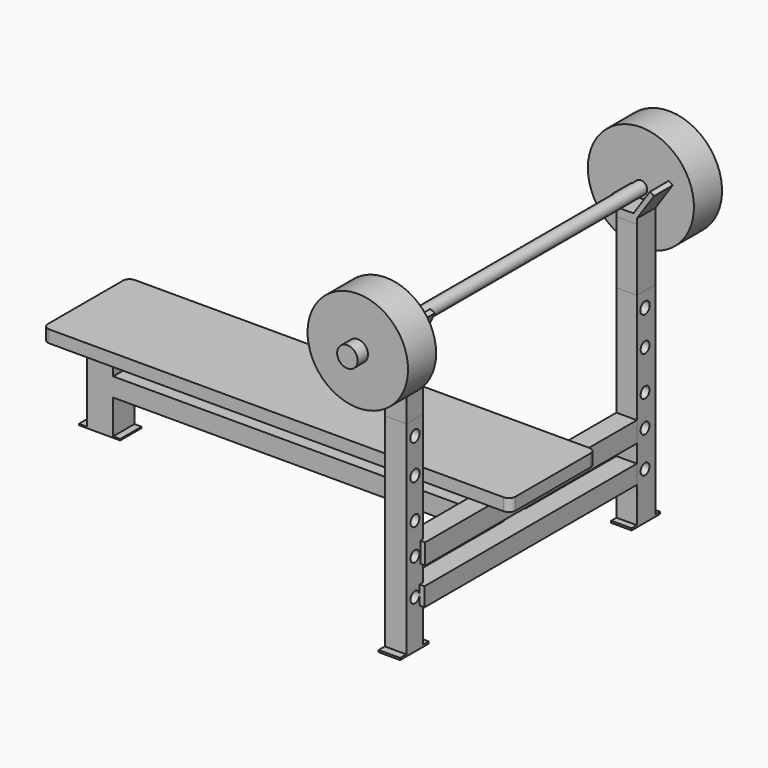
from build123d import *

# Parameters (mm, degrees)
F0_W           = 182.5544759631
F0_H           = 41.7688651942
F1_DEPTH       = 4.826
F2_W           = 10.2060101926
F2_H           = 10.4048848152
F3_DEPTH       = 35.56
F4_W           = 16.1235965788
F4_H           = 10.4048848152
F5_DEPTH       = 0.508
F6_W           = 10.4048848152
F6_H           = 7.266888395
F7_DEPTH       = 153.924
F8_W           = 8.3915367723
F8_H           = 8.1624239683
F9_DEPTH       = 42.926
F9_DEPTH_BACK  = 36.322
F10_W          = 7.9777687788
F10_H          = 9.0949684381
F11_DEPTH      = 42.926
F11_DEPTH_BACK = 36.068
F12_W          = 7.9777687788
F12_H          = 7.266888395
F13_DEPTH      = 103.632
F14_W          = 8.3915367723
F14_H          = 8.1624239683
F15_DEPTH      = 26.416
F16_W          = 7.9777687788
F16_H          = 9.0949684381
F17_DEPTH      = 26.416
F18_W          = 7.9777687788
F18_H          = 7.9777687788
F19_DEPTH      = 103.3018
F21_DEPTH      = 8.0772
F23_DEPTH      = 9.144
F24_R          = 2.54
F25_R          = 2.4691637826
F26_DEPTH      = 103.378
F26_DEPTH_BACK = 48.514
F27_R          = 19.6164042051
F28_DEPTH      = 13.716
F29_R          = 20.7006908264
F30_DEPTH      = 13.716
F31_R          = 3.5815774467
F32_DEPTH      = 5.08
F33_R          = 3.9997666951
F34_DEPTH      = 5.08
F35_R          = 2.286
F36_DEPTH      = 25.4
F37_R          = 2.286
F38_DEPTH      = 25.4
F39_R          = 2.159
F40_DEPTH      = 25.4
F41_R          = 2.159
F42_DEPTH      = 25.4
F43_R          = 2.159
F44_DEPTH      = 25.4
F45_R          = 2.286
F46_DEPTH      = 25.4
F47_R          = 2.159
F48_DEPTH      = 25.4
F49_R          = 2.159
F50_DEPTH      = 25.4
F51_R          = 2.159
F52_DEPTH      = 25.4
F53_R          = 2.159
F54_DEPTH      = 25.4
F55_W          = 8.3915367723
F55_H          = 13.9687731862
F56_DEPTH      = 0.762
F57_W          = 7.9777687788
F57_H          = 13.97
F58_DEPTH      = 0.762


with BuildPart() as f1:
    # F0 (on Top) → F1 (new body)
    with BuildSketch(Plane.XY):
        with Locations((31.3345678151, -28.3059768844)):
            Rectangle(F0_W, F0_H)
    extrude(amount=F1_DEPTH)

    # F2 (on face) → F3 (join)
    with BuildSketch(Plane(origin=(0, 0, 0), x_dir=(1, 0, 0), z_dir=(0, 0, -1))):
        with Locations((-51.5984315425, 26.4149345458)):
            Rectangle(F2_W, F2_H)
    extrude(amount=F3_DEPTH)

    # F4 (on face) → F5 (join)
    with BuildSketch(Plane(origin=(0, 0, -35.56), x_dir=(1, 0, 0), z_dir=(0, 0, -1))):
        with Locations((-51.7963599414, 26.4149345458)):
            Rectangle(F4_W, F4_H)
    extrude(amount=F5_DEPTH)

    # F6 (on face) → F7 (join)
    with BuildSketch(Plane.YZ.offset(-46.4954264462)):
        with Locations((-26.4149345458, -18.561120145)):
            Rectangle(F6_W, F6_H)
    extrude(amount=F7_DEPTH)

    # F24
    f24_edges = [f1.edges().sort_by_distance(p)[0] for p in [
        (-59.94267, -49.190409, 2.413),
        (-59.94267, -7.421544, 2.413),
        (122.611806, -7.421544, 2.413),
        (122.611806, -49.190409, 2.413),
    ]]
    fillet(f24_edges, radius=F24_R)


with BuildPart() as f9:
    # F8 (on Top) → F9 (new body, two sides)
    with BuildSketch(Plane.XY) as f9_sk:
        with Locations((108.089659363, -82.9381048679)):
            Rectangle(F8_W, F8_H)
    extrude(amount=F9_DEPTH)
    extrude(f9_sk.sketch, amount=-F9_DEPTH_BACK)

    # F35 (on face) → F36 (cut)
    with BuildSketch(Plane(origin=(103.8938909769, 0, 0), x_dir=(0, -1, 0), z_dir=(-1, 0, 0))):
        with Locations((82.7748328447, 37.0264612138)):
            Circle(F35_R)
    extrude(amount=-F36_DEPTH, mode=Mode.SUBTRACT)

    # F37 (on face) → F38 (cut)
    with BuildSketch(Plane(origin=(103.8938909769, 0, 0), x_dir=(0, -1, 0), z_dir=(-1, 0, 0))):
        with Locations((82.7748328447, 23.4361514449)):
            Circle(F37_R)
    extrude(amount=-F38_DEPTH, mode=Mode.SUBTRACT)

    # F39 (on face) → F40 (cut)
    with BuildSketch(Plane(origin=(103.8938909769, 0, 0), x_dir=(0, -1, 0), z_dir=(-1, 0, 0))):
        with Locations((82.7748328447, 7.9502836706)):
            Circle(F39_R)
    extrude(amount=-F40_DEPTH, mode=Mode.SUBTRACT)

    # F41 (on face) → F42 (cut)
    with BuildSketch(Plane(origin=(103.8938909769, 0, 0), x_dir=(0, -1, 0), z_dir=(-1, 0, 0))):
        with Locations((82.7748328447, -4.324061789)):
            Circle(F41_R)
    extrude(amount=-F42_DEPTH, mode=Mode.SUBTRACT)

    # F43 (on face) → F44 (cut)
    with BuildSketch(Plane(origin=(103.8938909769, 0, 0), x_dir=(0, -1, 0), z_dir=(-1, 0, 0))):
        with Locations((82.7748328447, -18.3779209473)):
            Circle(F43_R)
    extrude(amount=-F44_DEPTH, mode=Mode.SUBTRACT)

    # F55 (on face) → F56 (join)
    with BuildSketch(Plane(origin=(0, 0, -36.322), x_dir=(1, 0, 0), z_dir=(0, 0, -1))):
        with Locations((108.089659363, 83.0502994359)):
            Rectangle(F55_W, F55_H)
    extrude(amount=F56_DEPTH)


with BuildPart() as f11:
    # F10 (on Top) → F11 (new body, two sides)
    with BuildSketch(Plane.XY) as f11_sk:
        with Locations((110.2189868689, 27.6590138674)):
            Rectangle(F10_W, F10_H)
    extrude(amount=F11_DEPTH)
    extrude(f11_sk.sketch, amount=-F11_DEPTH_BACK)

    # F45 (on face) → F46 (cut)
    with BuildSketch(Plane(origin=(106.2301024795, 0, 0), x_dir=(0, -1, 0), z_dir=(-1, 0, 0))):
        with Locations((-27.1144246185, 37.0264612138)):
            Circle(F45_R)
    extrude(amount=-F46_DEPTH, mode=Mode.SUBTRACT)

    # F47 (on face) → F48 (cut)
    with BuildSketch(Plane(origin=(106.2301024795, 0, 0), x_dir=(0, -1, 0), z_dir=(-1, 0, 0))):
        with Locations((-27.1144246185, 23.4361514449)):
            Circle(F47_R)
    extrude(amount=-F48_DEPTH, mode=Mode.SUBTRACT)

    # F49 (on face) → F50 (cut)
    with BuildSketch(Plane(origin=(106.2301024795, 0, 0), x_dir=(0, -1, 0), z_dir=(-1, 0, 0))):
        with Locations((-27.1144246185, 7.9502836706)):
            Circle(F49_R)
    extrude(amount=-F50_DEPTH, mode=Mode.SUBTRACT)

    # F51 (on face) → F52 (cut)
    with BuildSketch(Plane(origin=(106.2301024795, 0, 0), x_dir=(0, -1, 0), z_dir=(-1, 0, 0))):
        with Locations((-27.1144246185, -4.324061789)):
            Circle(F51_R)
    extrude(amount=-F52_DEPTH, mode=Mode.SUBTRACT)

    # F53 (on face) → F54 (cut)
    with BuildSketch(Plane(origin=(106.2301024795, 0, 0), x_dir=(0, -1, 0), z_dir=(-1, 0, 0))):
        with Locations((-27.1144246185, -18.3779209473)):
            Circle(F53_R)
    extrude(amount=-F54_DEPTH, mode=Mode.SUBTRACT)

    # F57 (on face) → F58 (join)
    with BuildSketch(Plane(origin=(0, 0, -36.068), x_dir=(1, 0, 0), z_dir=(0, 0, -1))):
        with Locations((110.2189868689, -27.5148501241)):
            Rectangle(F57_W, F57_H)
    extrude(amount=F58_DEPTH)


with BuildPart() as f13:
    # F12 (on face) → F13 (new body)
    with BuildSketch(Plane.XZ.offset(-23.1115296483)):
        with Locations((110.2189868689, -18.561120145)):
            Rectangle(F12_W, F12_H)
    extrude(amount=F13_DEPTH)


with BuildPart() as f15:
    # F14 (on face) → F15 (new body)
    with BuildSketch(Plane.XY.offset(42.926)):
        with Locations((108.089659363, -82.9381048679)):
            Rectangle(F14_W, F14_H)
    extrude(amount=F15_DEPTH)

    # F20 (on face) → F21 (join)
    with BuildSketch(Plane.XZ.offset(87.0193168521)):
        Polygon((103.8938909769, 69.342), (103.8938909769, 67.6358491182), (112.2854277492, 67.6358491182), (112.2854277492, 69.342), (116.9915574782, 79.2138812944), (115.1953257449, 80.0701820651), (110.5342805386, 70.2928729737), (104.753809084, 70.2928729737), (102.3182260611, 74.0911631414), (101.2767925858, 73.4233632684), align=None)
    extrude(amount=-F21_DEPTH)


with BuildPart() as f17:
    # F16 (on face) → F17 (new body)
    with BuildSketch(Plane.XY.offset(42.926)):
        with Locations((110.2189868689, 27.6590138674)):
            Rectangle(F16_W, F16_H)
    extrude(amount=F17_DEPTH)

    # F22 (on face) → F23 (join)
    with BuildSketch(Plane(origin=(0, 32.2064980865, 0), x_dir=(-1, 0, 0), z_dir=(0, 1, 0))):
        Polygon((-114.2078712583, 69.342), (-114.2078712583, 67.373663187), (-106.2301024795, 67.373663187), (-106.2301024795, 69.342), (-104.6840838743, 74.763624908), (-106.2301024795, 75.2044841647), (-107.5064986944, 70.7283792274), (-112.9132110877, 70.7283792274), (-119.3986680894, 80.2934111335), (-120.9295466542, 79.2554169893), align=None)
    extrude(amount=-F23_DEPTH)


with BuildPart() as f19:
    # F18 (on face) → F19 (new body)
    with BuildSketch(Plane.XZ.offset(-23.1115296483)):
        with Locations((110.2189868689, -3.9612364417)):
            Rectangle(F18_W, F18_H)
    extrude(amount=F19_DEPTH)


with BuildPart() as f26:
    # F25 (on Front) → F26 (new body, two sides)
    with BuildSketch(Plane.XZ) as f26_sk:
        with Locations((106.436625123, 72.7620367564)):
            Circle(F25_R)
    extrude(amount=F26_DEPTH)
    extrude(f26_sk.sketch, amount=-F26_DEPTH_BACK)

    # F27 (on face) → F28 (join)
    with BuildSketch(Plane.XZ.offset(103.378)):
        with Locations((106.436625123, 72.7620367564)):
            Circle(F27_R)
    extrude(amount=-F28_DEPTH)

    # F29 (on face) → F30 (join)
    with BuildSketch(Plane(origin=(0, 48.514, 0), x_dir=(-1, 0, 0), z_dir=(0, 1, 0))):
        with Locations((-106.436625123, 72.7620367564)):
            Circle(F29_R)
    extrude(amount=-F30_DEPTH)

    # F31 (on face) → F32 (join)
    with BuildSketch(Plane(origin=(0, 48.514, 0), x_dir=(-1, 0, 0), z_dir=(0, 1, 0))):
        with Locations((-106.436625123, 72.7620367564)):
            Circle(F31_R)
    extrude(amount=F32_DEPTH)

    # F33 (on face) → F34 (join)
    with BuildSketch(Plane.XZ.offset(103.378)):
        with Locations((106.436625123, 72.7620367564)):
            Circle(F33_R)
    extrude(amount=F34_DEPTH)


solid = Compound([f1.part, f9.part, f11.part, f13.part, f15.part, f17.part, f19.part, f26.part])
